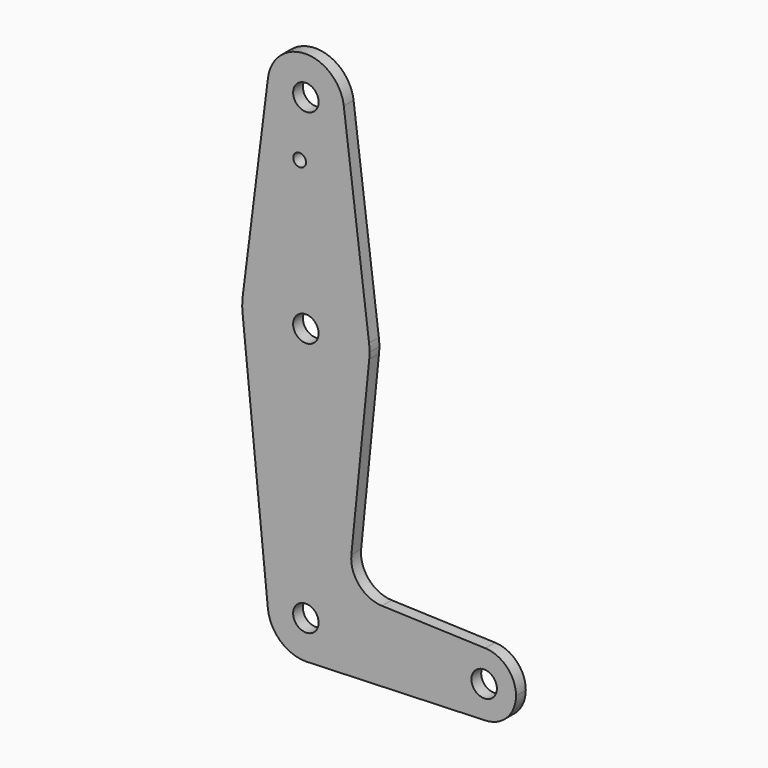
from build123d import *

# Parameters (mm, degrees)
F0_R     = 3.175
F1_DEPTH = 3.048


with BuildPart() as f1:
    # F0 (on Front) → F1 (new body)
    with BuildSketch(Plane.XZ):
        with BuildLine():
            ThreePointArc((0.677344, -9.500886), (6.970557, -6.491299), (9.525, 0))
            ThreePointArc((9.525, 0), (-0.476848, 9.513056), (-9.477255, -0.9525))
            ThreePointArc((-9.477255, -0.9525), (-6.389564, -7.063929), (0, -9.525))
            Line((0, -9.525), (0.677344, -9.500886))
        make_face()
        Circle(F0_R, mode=Mode.SUBTRACT)
        with BuildLine():
            ThreePointArc((-9.477255, -0.9525), (-0.476848, 9.513056), (9.525, 0))
            ThreePointArc((9.525, 0), (6.970557, -6.491299), (0.677344, -9.500886))
            Line((0.677344, -9.500886), (44.732405, -7.932475))
            ThreePointArc((44.732405, -7.932475), (36.5125, 0), (44.732405, 7.932475))
            Line((44.732405, 7.932475), (18.9676, 8.853234))
            ThreePointArc((18.9676, 8.853234), (13.2612, 11.571359), (11.341187, 17.593382))
            Line((11.341187, 17.593382), (15.795426, 61.9125))
            ThreePointArc((15.795426, 61.9125), (0, 47.625), (-15.795426, 61.9125))
            Line((-15.795426, 61.9125), (-9.477255, -0.9525))
        make_face()
        with BuildLine():
            ThreePointArc((0, -9.525), (0.338886, -9.51897), (0.677344, -9.500886))
            Line((0.677344, -9.500886), (0, -9.525))
        make_face()
        with BuildLine():
            ThreePointArc((3.175, 63.5), (2.245064, 65.745064), (0, 66.675))
            ThreePointArc((0, 66.675), (-2.245064, 61.254936), (3.175, 63.5))
        make_face()
        with BuildLine():
            ThreePointArc((-15.750488, 65.484375), (-15.873744, 63.699705), (-15.795426, 61.9125))
            ThreePointArc((-15.795426, 61.9125), (0, 47.625), (15.795426, 61.9125))
            ThreePointArc((15.795426, 61.9125), (15.855094, 62.705253), (15.875, 63.5))
            ThreePointArc((15.875, 63.5), (15.843841, 64.494139), (15.750488, 65.484375))
            ThreePointArc((15.750488, 65.484375), (10.500326, 75.40625), (0, 79.375))
            ThreePointArc((0, 79.375), (-10.500326, 75.40625), (-15.750488, 65.484375))
        make_face()
        with BuildLine():
            ThreePointArc((3.175, 63.5), (-2.245064, 61.254936), (0, 66.675))
            ThreePointArc((0, 66.675), (2.245064, 65.745064), (3.175, 63.5))
        make_face(mode=Mode.SUBTRACT)
        with BuildLine():
            ThreePointArc((44.732405, 7.932475), (36.5125, 0), (44.732405, -7.932475))
            ThreePointArc((44.732405, -7.932475), (50.161633, -5.51191), (52.3875, 0))
            ThreePointArc((52.3875, 0), (50.161633, 5.51191), (44.732405, 7.932475))
        make_face()
        with Locations((44.45, 0)):
            Circle(F0_R, mode=Mode.SUBTRACT)
        with BuildLine():
            ThreePointArc((0.03175, 100.0252), (-3.135293, 100.18395), (0, 99.709291))
            ThreePointArc((0, 99.709291), (0.023793, 99.86645), (0.03175, 100.0252))
        make_face()
        with BuildLine():
            Line((-9.450293, 115.490625), (-15.750488, 65.484375))
            ThreePointArc((-15.750488, 65.484375), (-10.500326, 75.40625), (0, 79.375))
            ThreePointArc((0, 79.375), (10.500326, 75.40625), (15.750488, 65.484375))
            Line((15.750488, 65.484375), (9.450293, 115.490625))
            ThreePointArc((9.450293, 115.490625), (9.506305, 114.896483), (9.525, 114.3))
            ThreePointArc((9.525, 114.3), (-0.596483, 104.793695), (-9.450293, 115.490625))
        make_face()
        with BuildLine():
            ThreePointArc((0.03175, 100.0252), (0.023793, 99.86645), (0, 99.709291))
            ThreePointArc((0, 99.709291), (-3.135293, 100.18395), (0.03175, 100.0252))
        make_face(mode=Mode.SUBTRACT)
        with BuildLine():
            ThreePointArc((9.450293, 115.490625), (0, 123.825), (-9.450293, 115.490625))
            ThreePointArc((-9.450293, 115.490625), (-0.596483, 104.793695), (9.525, 114.3))
            ThreePointArc((9.525, 114.3), (9.506305, 114.896483), (9.450293, 115.490625))
        make_face()
        with Locations((0, 114.3)):
            Circle(F0_R, mode=Mode.SUBTRACT)
    extrude(amount=F1_DEPTH)


solid = f1.part
